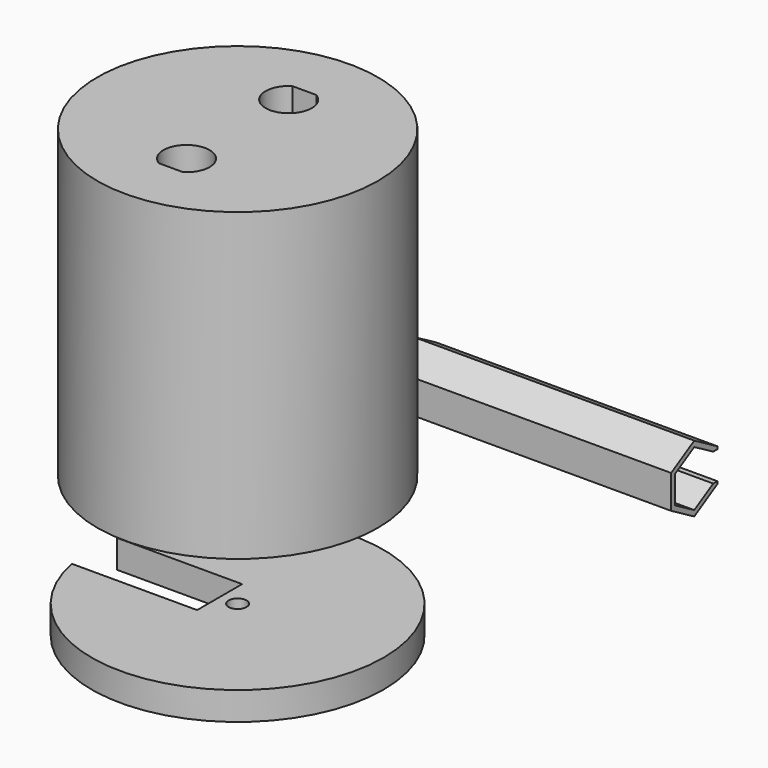
from build123d import *

# Parameters (mm, degrees)
POCKET_DEPTH       = 182.45217
POLARPATTERN_COUNT = 2
SKETCH002_R        = 4
SKETCH002_R_2      = 2
PAD_DEPTH          = 60
SKETCH003_R        = 25.9649
PAD001_DEPTH       = 5
SKETCH004_R        = 1.6
SKETCH004_W        = 26.8289
SKETCH004_H        = 10
POCKET001_DEPTH    = 5.001
PAD002_DEPTH       = 50
POCKET005_DEPTH    = 50.001
POCKET006_DEPTH    = 10


with BuildPart() as top:
    # Sketch → Revolution (revolve)
    with BuildSketch(Plane.XZ):
        Polygon((0, 54.3), (0, 50), (18.7009, 50), (18.7009, 0), (19.7009, 0), (19.7009, 2.8924), (23.9649, 2.8924), (23.9649, 0), (24.9649, 0), (24.9649, 54.3), align=None)
    revolve(axis=Axis((0, 0, 0), (0, 0, 1)))

    # Sketch001 (on DatumPlane) → Pocket (cut, through all)
    with BuildSketch(Plane(origin=(0, 0, 50), x_dir=(1, 0, 0), z_dir=(0, 0, -1))):
        with BuildLine():
            ThreePointArc((-2.150058, 14.841924), (0, 7.2509), (2.150058, 14.841924))
            Line((-2.150058, 14.841924), (2.150058, 14.841924))
        make_face()
    pocket = extrude(amount=-POCKET_DEPTH, mode=Mode.SUBTRACT)

    # PolarPattern: Pocket ×2 about axis
    polarpattern_axis = Axis((0, 0, 50), (0, 0, -1))
    for i in range(1, POLARPATTERN_COUNT):
        add(pocket.rotate(polarpattern_axis, i * 360 / POLARPATTERN_COUNT), mode=Mode.SUBTRACT)

    # Sketch002 (on DatumPlane) → Pad (join)
    with BuildSketch(Plane(origin=(0, 0, 50), x_dir=(1, 0, 0), z_dir=(0, 0, -1))):
        Circle(SKETCH002_R)
        Circle(SKETCH002_R_2, mode=Mode.SUBTRACT)
    extrude(amount=PAD_DEPTH)


with BuildPart() as bottom:
    # Sketch003 → Pad001 (new body)
    with BuildSketch(Plane.XY):
        Circle(SKETCH003_R)
    extrude(amount=PAD001_DEPTH)

    # Sketch004 (on Face2 of Pad001) → Pocket001 (cut, through all)
    with BuildSketch(Plane(origin=(0, 0, 0), x_dir=(1, 0, 0), z_dir=(0, 0, -1))):
        Circle(SKETCH004_R)
        with Locations((-16.61445, 0)):
            Rectangle(SKETCH004_W, SKETCH004_H)
    extrude(amount=-POCKET001_DEPTH, mode=Mode.SUBTRACT)


with BuildPart() as bottom_1:
    # Body001 placement: moved
    add(bottom.part.moved(Location((0, 0, -25))))


with BuildPart() as tool:
    # Sketch008 → Pad002 (new body)
    with BuildSketch(Plane.YZ):
        Polygon((5.139861, -2.9675), (5.139861, 2.9675), (0, 5.935), (-5.139861, 2.9675), (-5.139861, -2.9675), (0, -5.935), align=None)
    extrude(amount=PAD002_DEPTH)

    # Sketch009 (on DatumPlane) → Pocket005 (cut, through all)
    with BuildSketch(Plane.YZ):
        with BuildLine():
            ThreePointArc((0, 2.5), (-2.5, 0), (0, -2.5))
            Line((9.197932, -2.5), (0, -2.5))
            Line((9.197932, 2.5), (9.197932, -2.5))
            Line((0, 2.5), (9.197932, 2.5))
        make_face()
    extrude(amount=POCKET005_DEPTH, mode=Mode.SUBTRACT)

    # Sketch010 (on DatumPlane) → Pocket006 (cut)
    with BuildSketch(Plane.YZ.offset(50)):
        Polygon((4.273835, 2.4675), (0, 4.935), (-4.273835, 2.4675), (-4.273835, -2.4675), (0, -4.935), (4.273835, -2.4675), align=None)
    extrude(amount=-POCKET006_DEPTH, mode=Mode.SUBTRACT)


with BuildPart() as tool_1:
    # Body002 placement: moved
    add(tool.part.moved(Location((0, 39, 0))))


solid = Compound([top.part, bottom_1.part, tool_1.part])
